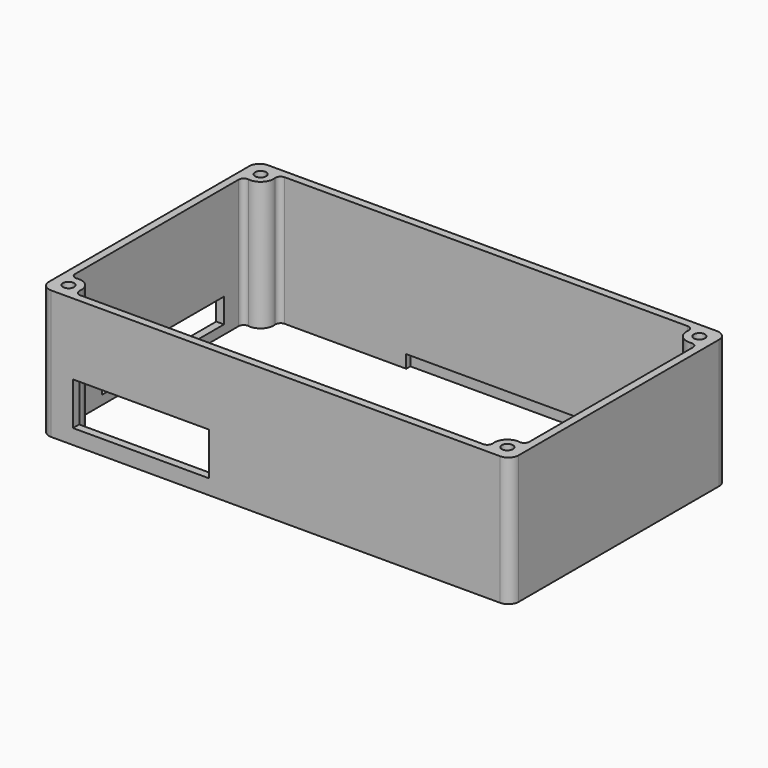
from build123d import *

# Parameters (mm, degrees)
PAD003_DEPTH    = 50
SKETCH006_W     = 106.97
SKETCH006_H     = 2
POCKET002_DEPTH = 5
SKETCH007_R     = 2.15
POCKET003_DEPTH = 50.001
FILLET001_R     = 2
SKETCH008_W     = 52.7
SKETCH008_H     = 16.6
POCKET004_DEPTH = 5
SKETCH009_W     = 59
SKETCH009_H     = 9.5
POCKET005_DEPTH = 5


with BuildPart() as part:
    # Sketch005 → Pad003 (new body)
    with BuildSketch(Plane.XY):
        with BuildLine():
            Line((4, 0), (177.97, 0))
            ThreePointArc((181.97, -4), (180.798427, -1.171573), (177.97, 0))
            Line((181.97, -4), (181.97, -101))
            ThreePointArc((177.97, -105), (180.798427, -103.828427), (181.97, -101))
            Line((177.97, -105), (4, -105))
            ThreePointArc((0, -101), (1.171573, -103.828427), (4, -105))
            Line((0, -101), (0, -4))
            ThreePointArc((4, 0), (1.171573, -1.171573), (0, -4))
        make_face()
        with BuildLine():
            Line((10, -3), (171.97, -3))
            ThreePointArc((171.97, -3), (172.434466, -9.535534), (178.97, -10))
            Line((178.97, -10), (178.97, -95))
            ThreePointArc((178.97, -95), (172.434466, -95.464466), (171.97, -102))
            Line((171.97, -102), (10, -102))
            ThreePointArc((10, -102), (9.535534, -95.464466), (3, -95))
            Line((3, -95), (3, -10))
            ThreePointArc((3, -10), (9.535534, -9.535534), (10, -3))
        make_face(mode=Mode.SUBTRACT)
    extrude(amount=PAD003_DEPTH)

    # Sketch006 (on Face17 of Pad003) → Pocket002 (cut)
    with BuildSketch(Plane(origin=(0, 0, 0), x_dir=(1, 0, 0), z_dir=(0, 0, -1))):
        with Locations((113.485, 2)):
            Rectangle(SKETCH006_W, SKETCH006_H)
    extrude(amount=-POCKET002_DEPTH, mode=Mode.SUBTRACT)

    # Sketch007 (on Face4 of Pocket002) → Pocket003 (cut, through all)
    with BuildSketch(Plane(origin=(0, 0, 0), x_dir=(1, 0, 0), z_dir=(0, 0, -1))):
        with Locations((6, 99)):
            Circle(SKETCH007_R)
        with Locations((175.97, 99)):
            Circle(SKETCH007_R)
        with Locations((6, 6)):
            Circle(SKETCH007_R)
        with Locations((175.97, 6)):
            Circle(SKETCH007_R)
    extrude(amount=-POCKET003_DEPTH, mode=Mode.SUBTRACT)

    # Fillet001
    fillet001_edges = [part.edges().sort_by_distance(p)[0] for p in [
        (3, -95, 25),
        (10, -102, 25),
        (3, -10, 25),
        (10, -3, 25),
        (171.97, -102, 25),
        (178.97, -95, 25),
        (178.97, -10, 25),
        (171.97, -3, 25),
    ]]
    fillet(fillet001_edges, radius=FILLET001_R)

    # Sketch008 (on Face24 of Fillet001) → Pocket004 (cut)
    with BuildSketch(Plane.XZ.offset(105)):
        with Locations((38.85, 14.1)):
            Rectangle(SKETCH008_W, SKETCH008_H)
    extrude(amount=-POCKET004_DEPTH, mode=Mode.SUBTRACT)

    # Sketch009 (on Face21 of Pocket004) → Pocket005 (cut)
    with BuildSketch(Plane(origin=(0, 0, 0), x_dir=(0, -1, 0), z_dir=(-1, 0, 0))):
        with Locations((49.5, 8.25)):
            Rectangle(SKETCH009_W, SKETCH009_H)
    extrude(amount=-POCKET005_DEPTH, mode=Mode.SUBTRACT)


solid = part.part
